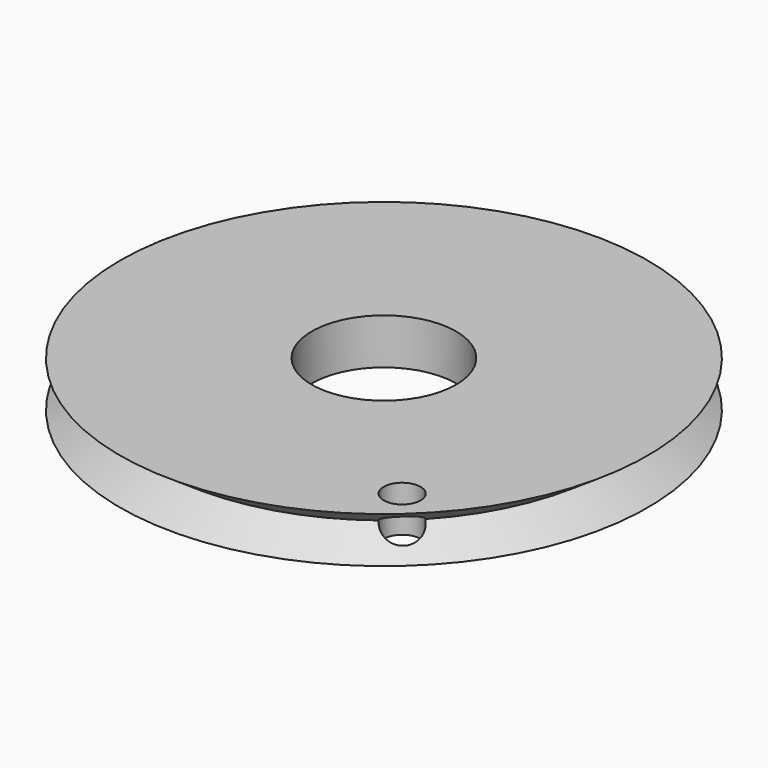
from build123d import *

# Parameters (mm, degrees)
F2_R     = 4.443183
F3_DEPTH = 25.4
F4_R     = 17.399446
F5_DEPTH = 25.4


with BuildPart() as f1:
    # F0 (on Front) → F1 (revolve)
    with BuildSketch(Plane.XZ):
        Polygon((-63.626997, 0), (0, 0), (0, 11.046355), (-63.626997, 11.046355), (-54.990999, 5.204355), align=None)
    revolve(axis=Axis((0, 0, 5.523177), (0, 0, -1)))

    # F2 (on face) → F3 (cut)
    with BuildSketch(Plane(origin=(0, 0, 0), x_dir=(1, 0, 0), z_dir=(0, 0, -1))):
        with Locations((37.211001, 41.018352)):
            Circle(F2_R)
    extrude(amount=-F3_DEPTH, mode=Mode.SUBTRACT)

    # F4 (on face) → F5 (cut)
    with BuildSketch(Plane(origin=(0, 0, 0), x_dir=(1, 0, 0), z_dir=(0, 0, -1))):
        Circle(F4_R)
    extrude(amount=-F5_DEPTH, mode=Mode.SUBTRACT)


solid = f1.part
